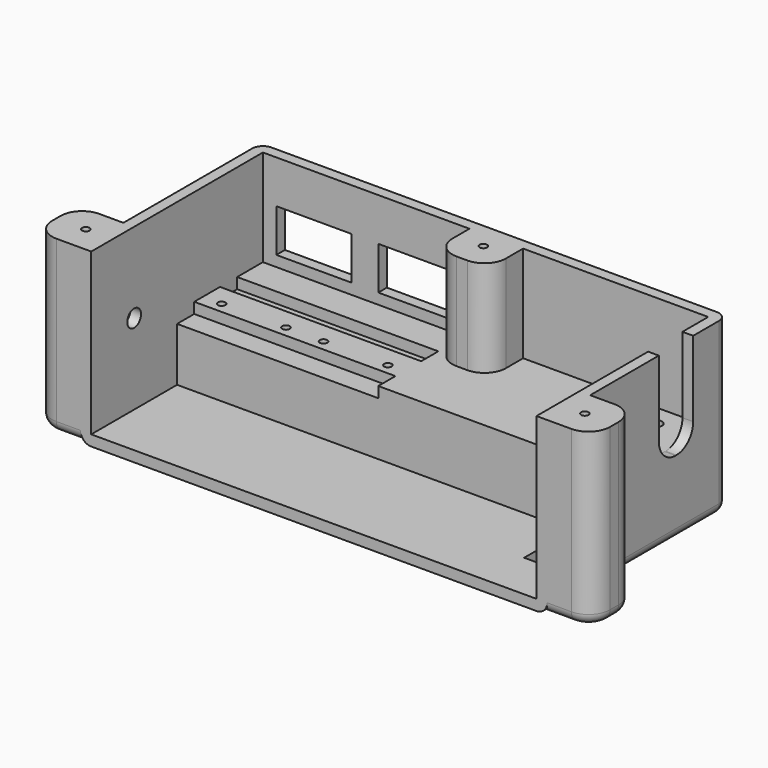
from build123d import *

# Parameters (mm, degrees)
BOX019_W          = 14
BOX019_H          = 14
BOX019_DEPTH      = 8
BOX020_W          = 14
BOX020_H          = 14
BOX020_DEPTH      = 8
BOX021_W          = 37.5
BOX021_H          = 4
BOX021_DEPTH      = 3
BOX022_W          = 37.5
BOX022_H          = 4
BOX022_DEPTH      = 3
CYLINDER023_R     = 0.7
CYLINDER023_DEPTH = 15
CYLINDER024_R     = 0.7
CYLINDER024_DEPTH = 15
CYLINDER025_R     = 0.7
CYLINDER025_DEPTH = 15
CYLINDER026_R     = 0.7
CYLINDER026_DEPTH = 15
BOX013_W          = 9.5
BOX013_H          = 11
BOX013_DEPTH      = 4
CYLINDER009_R     = 3.5
CYLINDER009_DEPTH = 11.5
BOX007_W          = 30
BOX007_H          = 8
BOX007_DEPTH      = 20
FILLET003_R       = 3.9
CYLINDER008_R     = 1.1
CYLINDER008_DEPTH = 30
CYLINDER007_R     = 1.1
CYLINDER007_DEPTH = 30
CYLINDER006_R     = 1.1
CYLINDER006_DEPTH = 30
CYLINDER005_R     = 1.1
CYLINDER005_DEPTH = 30
CYLINDER004_R     = 0.7
CYLINDER004_DEPTH = 40
CYLINDER003_R     = 0.7
CYLINDER003_DEPTH = 40
CYLINDER002_R     = 0.7
CYLINDER002_DEPTH = 40
CYLINDER001_R     = 1.1
CYLINDER001_DEPTH = 30
CYLINDER_R        = 1.6
CYLINDER_DEPTH    = 20
BOX012_W          = 10
BOX012_H          = 10
BOX012_DEPTH      = 20
FILLET008_R       = 2
BOX003_W          = 10
BOX003_H          = 10
BOX003_DEPTH      = 32
BOX_W             = 83
BOX_H             = 20
BOX_DEPTH         = 12
FILLET_R          = 4
BOX002_W          = 83
BOX002_H          = 40
BOX002_DEPTH      = 40
BOX001_W          = 87
BOX001_H          = 42
BOX001_DEPTH      = 32
FILLET004_R       = 2
FILLET005_R       = 2
BOX005_W          = 10
BOX005_H          = 10
BOX005_DEPTH      = 32
FILLET002_R       = 4
FILLET006_R       = 2
BOX004_W          = 10
BOX004_H          = 10
BOX004_DEPTH      = 32
FILLET001_R       = 4
FILLET007_R       = 2


with BuildPart() as cube016:
    # Box019 → Box019 (new body)
    with BuildSketch(Plane(origin=(-39, 35, 16), x_dir=(1, 0, 0), z_dir=(0, 0, 1))):
        with Locations((7, 7)):
            Rectangle(BOX019_W, BOX019_H)
    extrude(amount=BOX019_DEPTH)


with BuildPart() as cube017:
    # Box020 → Box020 (new body)
    with BuildSketch(Plane(origin=(-20, 35, 16), x_dir=(1, 0, 0), z_dir=(0, 0, 1))):
        with Locations((7, 7)):
            Rectangle(BOX020_W, BOX020_H)
    extrude(amount=BOX020_DEPTH)


with BuildPart() as cube018:
    # Box021 → Box021 (new body)
    with BuildSketch(Plane(origin=(-41.5, 20, 12), x_dir=(1, 0, 0), z_dir=(0, 0, 1))):
        with Locations((18.75, 2)):
            Rectangle(BOX021_W, BOX021_H)
    extrude(amount=BOX021_DEPTH)


with BuildPart() as cube019:
    # Box022 → Box022 (new body)
    with BuildSketch(Plane(origin=(-41.5, 30, 12), x_dir=(1, 0, 0), z_dir=(0, 0, 1))):
        with Locations((18.75, 2)):
            Rectangle(BOX022_W, BOX022_H)
    extrude(amount=BOX022_DEPTH)


with BuildPart() as cylinder023:
    # Cylinder023 → Cylinder023 (new body)
    with BuildSketch(Plane(origin=(-38, 26, 2), x_dir=(1, 0, 0), z_dir=(0, 0, 1))):
        Circle(CYLINDER023_R)
    extrude(amount=CYLINDER023_DEPTH)


with BuildPart() as cylinder024:
    # Cylinder024 → Cylinder024 (new body)
    with BuildSketch(Plane(origin=(-26, 26, 2), x_dir=(1, 0, 0), z_dir=(0, 0, 1))):
        Circle(CYLINDER024_R)
    extrude(amount=CYLINDER024_DEPTH)


with BuildPart() as cylinder025:
    # Cylinder025 → Cylinder025 (new body)
    with BuildSketch(Plane(origin=(-19, 26, 2), x_dir=(1, 0, 0), z_dir=(0, 0, 1))):
        Circle(CYLINDER025_R)
    extrude(amount=CYLINDER025_DEPTH)


with BuildPart() as obj1:
    # Cylinder026 → Cylinder026 (new body)
    with BuildSketch(Plane(origin=(-7, 26, 2), x_dir=(1, 0, 0), z_dir=(0, 0, 1))):
        Circle(CYLINDER026_R)
    extrude(amount=CYLINDER026_DEPTH)

    # Fusion005008: union Cube016, Cube017, Cube018, Cube019, Cylinder023, Cylinder024, Cylinder025
    add(cube016.part)
    add(cube017.part)
    add(cube018.part)
    add(cube019.part)
    add(cylinder023.part)
    add(cylinder024.part)
    add(cylinder025.part)


with BuildPart() as cube011:
    # Box013 → Box013 (new body)
    with BuildSketch(Plane(origin=(32, 9, -1), x_dir=(1, 0, 0), z_dir=(0, 0, 1))):
        with Locations((4.75, 5.5)):
            Rectangle(BOX013_W, BOX013_H)
    extrude(amount=BOX013_DEPTH)


with BuildPart() as obj2:
    # Cylinder009 → Cylinder009 (new body)
    with BuildSketch(Plane(origin=(-55, 10, 17), x_dir=(0, 0, -1), z_dir=(1, 0, 0))):
        Circle(CYLINDER009_R)
    extrude(amount=CYLINDER009_DEPTH)


with BuildPart() as fillet003:
    # Box007 → Box007 (new body)
    with BuildSketch(Plane(origin=(20, 26, 14), x_dir=(1, 0, 0), z_dir=(0, 0, 1))):
        with Locations((15, 4)):
            Rectangle(BOX007_W, BOX007_H)
    extrude(amount=BOX007_DEPTH)

    # Fillet003
    fillet003_edges = [fillet003.edges().sort_by_distance(p)[0] for p in [
        (35, 26, 14),
        (35, 34, 14),
    ]]
    fillet(fillet003_edges, radius=FILLET003_R)


with BuildPart() as obj3:
    # Cylinder008 → Cylinder008 (new body)
    with BuildSketch(Plane(origin=(25, 24, 2), x_dir=(1, 0, 0), z_dir=(0, 0, 1))):
        Circle(CYLINDER008_R)
    extrude(amount=CYLINDER008_DEPTH)


with BuildPart() as obj4:
    # Cylinder007 → Cylinder007 (new body)
    with BuildSketch(Plane(origin=(35, 36, 2), x_dir=(1, 0, 0), z_dir=(0, 0, 1))):
        Circle(CYLINDER007_R)
    extrude(amount=CYLINDER007_DEPTH)


with BuildPart() as obj5:
    # Cylinder006 → Cylinder006 (new body)
    with BuildSketch(Plane(origin=(25, 36, 2), x_dir=(1, 0, 0), z_dir=(0, 0, 1))):
        Circle(CYLINDER006_R)
    extrude(amount=CYLINDER006_DEPTH)


with BuildPart() as obj6:
    # Cylinder005 → Cylinder005 (new body)
    with BuildSketch(Plane(origin=(35, 24, 2), x_dir=(1, 0, 0), z_dir=(0, 0, 1))):
        Circle(CYLINDER005_R)
    extrude(amount=CYLINDER005_DEPTH)


with BuildPart() as obj7:
    # Cylinder004 → Cylinder004 (new body)
    with BuildSketch(Plane(origin=(-46.5, 5, 2), x_dir=(1, 0, 0), z_dir=(0, 0, 1))):
        Circle(CYLINDER004_R)
    extrude(amount=CYLINDER004_DEPTH)


with BuildPart() as obj8:
    # Cylinder003 → Cylinder003 (new body)
    with BuildSketch(Plane(origin=(46.5, 5, 2), x_dir=(1, 0, 0), z_dir=(0, 0, 1))):
        Circle(CYLINDER003_R)
    extrude(amount=CYLINDER003_DEPTH)


with BuildPart() as obj9:
    # Cylinder002 → Cylinder002 (new body)
    with BuildSketch(Plane(origin=(2, 37, 2), x_dir=(1, 0, 0), z_dir=(0, 0, 1))):
        Circle(CYLINDER002_R)
    extrude(amount=CYLINDER002_DEPTH)


with BuildPart() as obj10:
    # Cylinder001 → Cylinder001 (new body)
    with BuildSketch(Plane(origin=(36.5, 15, 0), x_dir=(1, 0, 0), z_dir=(0, 0, 1))):
        Circle(CYLINDER001_R)
    extrude(amount=CYLINDER001_DEPTH)


with BuildPart() as obj11:
    # Cylinder → Cylinder (new body)
    with BuildSketch(Plane(origin=(-55, 10, 17), x_dir=(0, 0, -1), z_dir=(1, 0, 0))):
        Circle(CYLINDER_R)
    extrude(amount=CYLINDER_DEPTH)


with BuildPart() as screwholder005:
    # Box012 → Box012 (new body)
    with BuildSketch(Plane(origin=(33, 10, 4), x_dir=(1, 0, 0), z_dir=(0, 0, 1))):
        with Locations((5, 5)):
            Rectangle(BOX012_W, BOX012_H)
    extrude(amount=BOX012_DEPTH)

    # Fillet008
    fillet008_edges = [screwholder005.edges().sort_by_distance(p)[0] for p in [
        (33, 10, 14),
    ]]
    fillet(fillet008_edges, radius=FILLET008_R)


with BuildPart() as cube:
    # Box003 → Box003 (new body)
    with BuildSketch(Plane(origin=(-3, 32, 0), x_dir=(1, 0, 0), z_dir=(0, 0, 1))):
        with Locations((5, 5)):
            Rectangle(BOX003_W, BOX003_H)
    extrude(amount=BOX003_DEPTH)


with BuildPart() as fillet_body:
    # Box → Box (new body)
    with BuildSketch(Plane(origin=(-41.5, 20, 2), x_dir=(1, 0, 0), z_dir=(0, 0, 1))):
        with Locations((41.5, 10)):
            Rectangle(BOX_W, BOX_H)
    extrude(amount=BOX_DEPTH)

    # Fusion: union Cube
    add(cube.part)

    # Fillet
    fillet_edges = [fillet_body.edges().sort_by_distance(p)[0] for p in [
        (-3, 32, 23),
        (7, 32, 23),
    ]]
    fillet(fillet_edges, radius=FILLET_R)


with BuildPart() as boxhollows:
    # Box002 → Box002 (new body)
    with BuildSketch(Plane(origin=(-41.5, 0, 2), x_dir=(1, 0, 0), z_dir=(0, 0, 1))):
        with Locations((41.5, 20)):
            Rectangle(BOX002_W, BOX002_H)
    extrude(amount=BOX002_DEPTH)

    # Cut: cut Fillet body
    add(fillet_body.part, mode=Mode.SUBTRACT)

    # Cut001: cut ScrewHolder005
    add(screwholder005.part, mode=Mode.SUBTRACT)

    # Fusion005009: union obj1, Cube011, obj2, Fillet003, obj3, obj4, obj5, obj6, obj7, obj8, obj9, obj10, obj11
    add(obj1.part)
    add(cube011.part)
    add(obj2.part)
    add(fillet003.part)
    add(obj3.part)
    add(obj4.part)
    add(obj5.part)
    add(obj6.part)
    add(obj7.part)
    add(obj8.part)
    add(obj9.part)
    add(obj10.part)
    add(obj11.part)


with BuildPart() as mainboxcube:
    # Box001 → Box001 (new body)
    with BuildSketch(Plane(origin=(-43.5, 0, 0), x_dir=(1, 0, 0), z_dir=(0, 0, 1))):
        with Locations((43.5, 21)):
            Rectangle(BOX001_W, BOX001_H)
    extrude(amount=BOX001_DEPTH)

    # Fillet004
    fillet004_edges = [mainboxcube.edges().sort_by_distance(p)[0] for p in [
        (-43.5, 42, 16),
        (43.5, 42, 16),
    ]]
    fillet(fillet004_edges, radius=FILLET004_R)

    # Fillet005
    fillet005_edges = [mainboxcube.edges().sort_by_distance(p)[0] for p in [
        (0, 42, 0),
    ]]
    fillet(fillet005_edges, radius=FILLET005_R)


with BuildPart() as screwholder003:
    # Box005 → Box005 (new body)
    with BuildSketch(Plane(origin=(42, 0, 0), x_dir=(1, 0, 0), z_dir=(0, 0, 1))):
        with Locations((5, 5)):
            Rectangle(BOX005_W, BOX005_H)
    extrude(amount=BOX005_DEPTH)

    # Fillet002
    fillet002_edges = [screwholder003.edges().sort_by_distance(p)[0] for p in [
        (52, 0, 16),
        (52, 10, 16),
    ]]
    fillet(fillet002_edges, radius=FILLET002_R)

    # Fillet006
    fillet006_edges = [screwholder003.edges().sort_by_distance(p)[0] for p in [
        (50.828427, 8.828427, 0),
    ]]
    fillet(fillet006_edges, radius=FILLET006_R)


with BuildPart() as pwrbox:
    # Box004 → Box004 (new body)
    with BuildSketch(Plane(origin=(-52, 0, 0), x_dir=(1, 0, 0), z_dir=(0, 0, 1))):
        with Locations((5, 5)):
            Rectangle(BOX004_W, BOX004_H)
    extrude(amount=BOX004_DEPTH)

    # Fillet001
    fillet001_edges = [pwrbox.edges().sort_by_distance(p)[0] for p in [
        (-52, 0, 16),
        (-52, 10, 16),
    ]]
    fillet(fillet001_edges, radius=FILLET001_R)

    # Fillet007
    fillet007_edges = [pwrbox.edges().sort_by_distance(p)[0] for p in [
        (-45, 0, 0),
    ]]
    fillet(fillet007_edges, radius=FILLET007_R)

    # Fusion005003: union MainBoxCube, ScrewHolder003
    add(mainboxcube.part)
    add(screwholder003.part)

    # Cut005: cut BoxHollows
    add(boxhollows.part, mode=Mode.SUBTRACT)


solid = pwrbox.part
